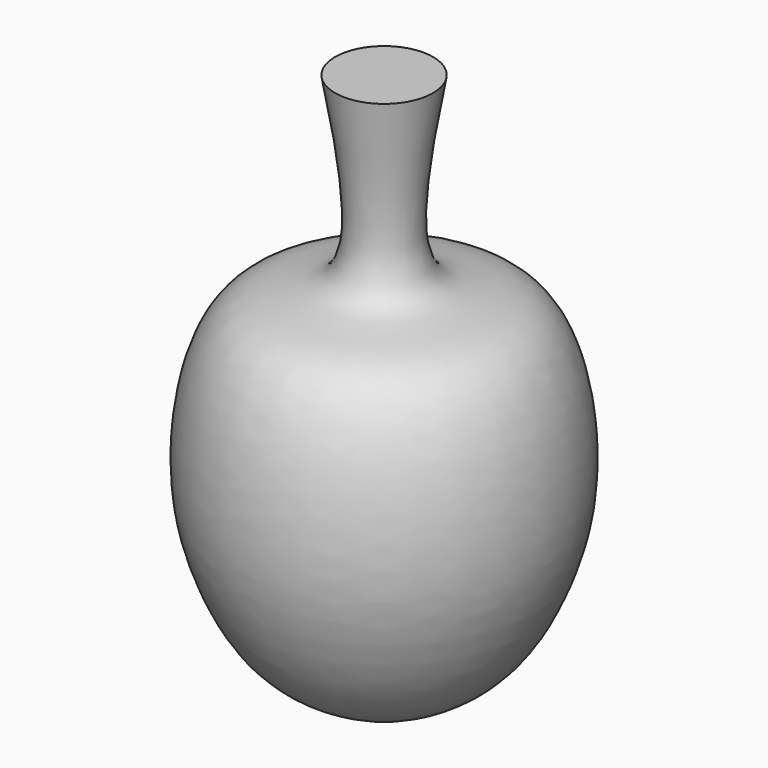
from build123d import *


with BuildPart() as f1:
    # F0 (on Right) → F1 (revolve)
    with BuildSketch(Plane.YZ):
        with BuildLine():
            Line((10.0026093423, 41.7296178639), (0, 41.7296178639))
            Line((0, 41.7296178639), (0, -72.0500200987))
            add(Edge.make_bspline(
                [(10.0026093423, 41.7296178639), (8.6879601861, 34.5542210001), (6.2819096467, 21.4219207106), (6.7740754325, 1.884259494), (29.6940378605, 4.5935903794), (36.0323264066, -27.2127775018), (31.0792971039, -47.883624484), (21.1300896031, -65.4015569476), (3.5933416672, -72.0961612845), (0.8262115477, -72.0606292709), (0, -72.0500200987)],
                knots=[0, 0, 0, 0, 0.1417938437, 0.2595088983, 0.3820010048, 0.5413645462, 0.6846514641, 0.8197003506, 0.946166011, 1, 1, 1, 1], degree=3))
        make_face()
    revolve(axis=Axis((0, 0, -0.3594532609), (0, 0, -1)))


solid = f1.part
